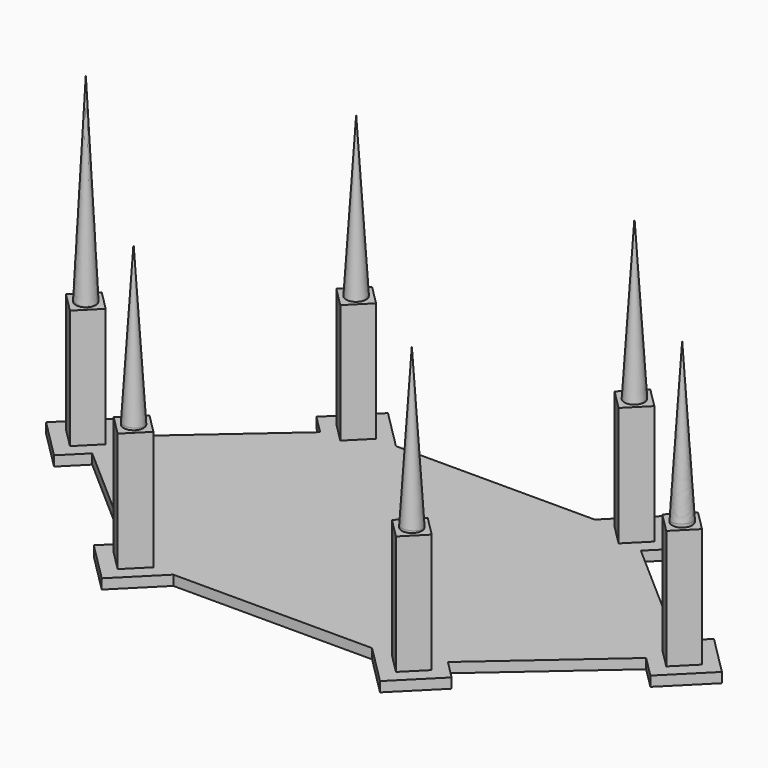
from build123d import *

# Parameters (mm, degrees)
F1_DEPTH  = 228.6
F2_R      = 6.35
F3_DEPTH  = 76.2
F2_R_2    = 0.031882
F4_DEPTH  = 177.8
F5_DEPTH  = 203.2
F18_W     = 457.192328
F18_H     = 234.95
F19_DEPTH = 254


with BuildPart() as f1:
    # F0 (on Top) → F1 (new body)
    with BuildSketch(Plane.XY):
        Polygon((-190.5, 0), (-176.955379, 11.851543), (-190.5, 25.396164), (-215.896164, 0), (-190.5, -25.396164), (-176.955379, -11.851543), align=None)
        Polygon((-165.103836, 0), (-176.955379, 11.851543), (-190.5, 0), (-176.955379, -11.851543), align=None)
        Polygon((-88.9, 0), (-88.9, 63.5), (-102.446667, 77.046667), (-176.955379, 11.851543), (-165.103836, 0), (-176.955379, -11.851543), (-102.446667, -77.046667), (-88.9, -63.5), align=None)
        Polygon((-88.9, 63.5), (-63.5, 88.9), (-88.9, 114.3), (-114.3, 88.9), (-102.446667, 77.046667), align=None)
        Polygon((-63.5, -88.9), (-88.9, -63.5), (-102.446667, -77.046667), (-114.3, -88.9), (-88.9, -114.3), align=None)
        Polygon((102.446667, -77.046667), (88.9, -63.5), (63.5, -88.9), (88.9, -114.3), (114.3, -88.9), align=None)
        Polygon((102.446667, 77.046667), (88.9, 63.5), (88.9, 0), (88.9, -63.5), (102.446667, -77.046667), (176.955379, -11.851543), (165.103836, 0), (176.955379, 11.851543), align=None)
        Polygon((63.5, 88.9), (0, 88.9), (-63.5, 88.9), (-88.9, 63.5), (-88.9, 0), (-88.9, -63.5), (-63.5, -88.9), (0, -88.9), (63.5, -88.9), (88.9, -63.5), (88.9, 0), (88.9, 63.5), align=None)
        Polygon((88.9, 114.3), (63.5, 88.9), (88.9, 63.5), (102.446667, 77.046667), (114.3, 88.9), align=None)
        Polygon((190.5, 25.396164), (176.955379, 11.851543), (190.5, 0), (176.955379, -11.851543), (190.5, -25.396164), (215.896164, 0), align=None)
        Polygon((190.5, 0), (176.955379, 11.851543), (165.103836, 0), (176.955379, -11.851543), align=None)
    extrude(amount=F1_DEPTH)

    # F2 (on face) → F3 (join)
    with BuildSketch(Plane.XY.offset(228.6)):
        Polygon((-177.801918, 0), (-190.5, 12.698082), (-203.198082, 0), (-190.5, -12.698082), align=None)
        with Locations((-190.5, 0)):
            Circle(F2_R, mode=Mode.SUBTRACT)
        Polygon((-88.9, 101.6), (-101.6, 88.9), (-88.9, 76.2), (-76.2, 88.9), align=None)
        with Locations((-88.9, 88.857636)):
            Circle(F2_R, mode=Mode.SUBTRACT)
        Polygon((190.5, -12.698082), (203.198082, 0), (190.5, 12.698082), (177.801918, 0), align=None)
        with Locations((190.5, 0)):
            Circle(F2_R, mode=Mode.SUBTRACT)
        Polygon((88.9, -101.6), (101.6, -88.9), (88.9, -76.2), (76.2, -88.9), align=None)
        with Locations((88.9, -88.857636)):
            Circle(F2_R, mode=Mode.SUBTRACT)
        Polygon((-101.6, -88.9), (-88.9, -101.6), (-76.2, -88.9), (-88.9, -76.2), align=None)
        with Locations((-88.9, -88.857636)):
            Circle(F2_R, mode=Mode.SUBTRACT)
        Polygon((101.6, 88.9), (88.9, 101.6), (76.2, 88.9), (88.9, 76.2), align=None)
        with Locations((88.9, 88.857636)):
            Circle(F2_R, mode=Mode.SUBTRACT)
    extrude(amount=F3_DEPTH)

    # F2 (on face) → F4 (join)
    with BuildSketch(Plane.XY.offset(228.6)):
        with Locations((-88.9, 88.857636)):
            Circle(F2_R)
        with Locations((-88.9, 88.857636)):
            Circle(F2_R_2, mode=Mode.SUBTRACT)
        with Locations((190.5, 0)):
            Circle(F2_R)
        with Locations((-88.9, -88.857636)):
            Circle(F2_R)
        with Locations((-88.9, -88.857636)):
            Circle(F2_R_2, mode=Mode.SUBTRACT)
        with Locations((88.9, -88.857636)):
            Circle(F2_R)
        with Locations((88.9, -88.857636)):
            Circle(F2_R_2, mode=Mode.SUBTRACT)
        with Locations((88.9, 88.857636)):
            Circle(F2_R)
        with Locations((88.9, 88.857636)):
            Circle(F2_R_2, mode=Mode.SUBTRACT)
    extrude(amount=F4_DEPTH)

    # F2 (on face) → F5 (join)
    with BuildSketch(Plane.XY.offset(228.6)):
        with Locations((-190.5, 0)):
            Circle(F2_R)
    extrude(amount=F5_DEPTH)

    # F6 (on face) → F7 (revolve, cut)
    with BuildSketch(Plane.XZ.offset(88.9)):
        Polygon((-88.8746, 406.4), (-82.4992, 304.8), (-82.4992, 406.4), align=None)
    revolve(axis=Axis((-88.9, -88.9, 355.6), (0, 0, 1)), mode=Mode.SUBTRACT)

    # F8 (on face) → F9 (revolve, cut)
    with BuildSketch(Plane.XZ.offset(88.9)):
        Polygon((88.925809, 406.4), (95.301209, 304.8), (95.301209, 406.4), align=None)
    revolve(axis=Axis((88.900409, -88.9, 355.6), (0, 0, 1)), mode=Mode.SUBTRACT)

    # F10 (on face) → F11 (revolve, cut)
    with BuildSketch(Plane(origin=(0, 88.9, 0), x_dir=(-1, 0, 0), z_dir=(0, 1, 0))):
        Polygon((88.92522, 406.4), (95.30062, 304.8), (95.30062, 406.4), align=None)
    revolve(axis=Axis((-88.89982, 88.9, 355.6), (0, 0, 1)), mode=Mode.SUBTRACT)

    # F12 (on face) → F13 (revolve, cut)
    with BuildSketch(Plane(origin=(0, 88.9, 0), x_dir=(-1, 0, 0), z_dir=(0, 1, 0))):
        Polygon((-88.873655, 406.4), (-82.498255, 304.8), (-82.498255, 406.4), align=None)
    revolve(axis=Axis((88.899055, 88.9, 355.6), (0, 0, 1)), mode=Mode.SUBTRACT)

    # F14 (on face) → F15 (revolve, cut)
    with BuildSketch(Plane(origin=(82.606195, 94.40708, 0), x_dir=(-0.752577, 0.658505, 0), z_dir=(0.658505, 0.752577, 0))):
        Polygon((-143.398283, 406.4), (-136.997483, 304.8), (-136.997483, 406.4), align=None)
    revolve(axis=Axis((190.543516, -0.038076, 355.6), (0, 0, 1)), mode=Mode.SUBTRACT)

    # F16 (on face) → F17 (revolve, cut)
    with BuildSketch(Plane(origin=(-82.606195, -94.40708, 0), x_dir=(0.752577, -0.658505, 0), z_dir=(-0.658505, -0.752577, 0))):
        Polygon((-143.395834, 431.8), (-136.995034, 304.8), (-136.995034, 431.8), align=None)
    revolve(axis=Axis((-190.541673, 0.036464, 368.3), (0, 0, 1)), mode=Mode.SUBTRACT)

    # F18 (on Front) → F19 (cut, symmetric)
    with BuildSketch(Plane.XZ):
        with Locations((0, 104.775)):
            Rectangle(F18_W, F18_H)
    extrude(amount=F19_DEPTH, both=True, mode=Mode.SUBTRACT)


solid = f1.part
